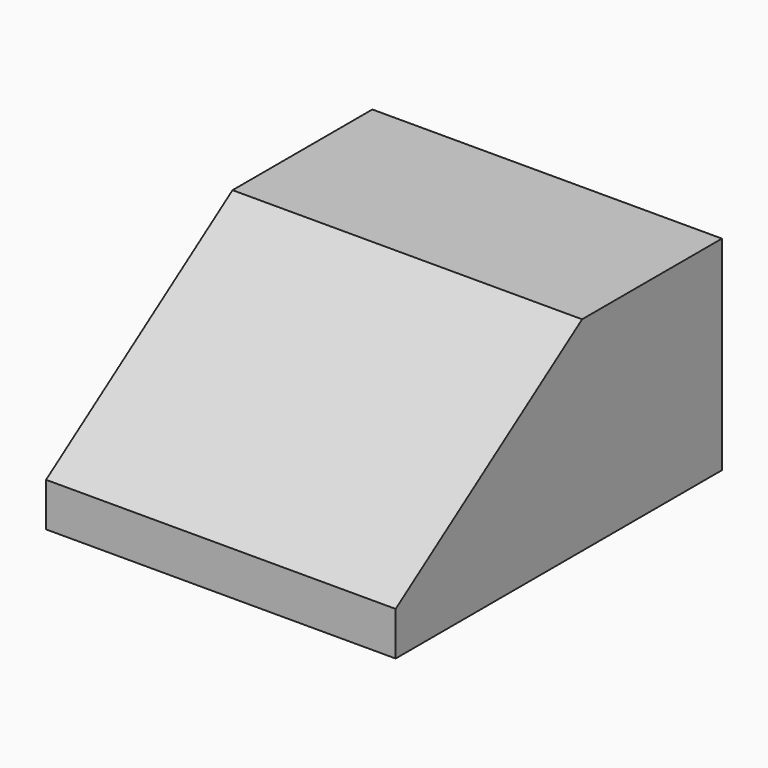
from build123d import *

# Parameters (mm, degrees)
F0_W     = 152.4
F0_H     = 177.8
F1_DEPTH = 88.9
F2_SIZE2 = 69.85
F2_SIZE  = 101.6
F3_W     = 127
F3_H     = 63.5
F4_DEPTH = 76.2


with BuildPart() as f1:
    # F0 (on Top) → F1 (new body)
    with BuildSketch(Plane.XY):
        with Locations((1.3535544276, 18.5724278663)):
            Rectangle(F0_W, F0_H)
    extrude(amount=F1_DEPTH)

    # F2
    f2_edges = [f1.edges().sort_by_distance(p)[0] for p in [
        (1.353554, -70.327572, 88.9),
    ]]
    f2_side = f1.faces().sort_by_distance((1.353554, 18.572428, 88.9))[0]
    chamfer(f2_edges, length=F2_SIZE, length2=F2_SIZE2, reference=f2_side)

    # F3 (on face) → F4 (cut)
    with BuildSketch(Plane(origin=(0, 107.4724278663, 0), x_dir=(-1, 0, 0), z_dir=(0, 1, 0))):
        with Locations((-1.3535544276, 44.45)):
            Rectangle(F3_W, F3_H)
    extrude(amount=-F4_DEPTH, mode=Mode.SUBTRACT)


solid = f1.part
